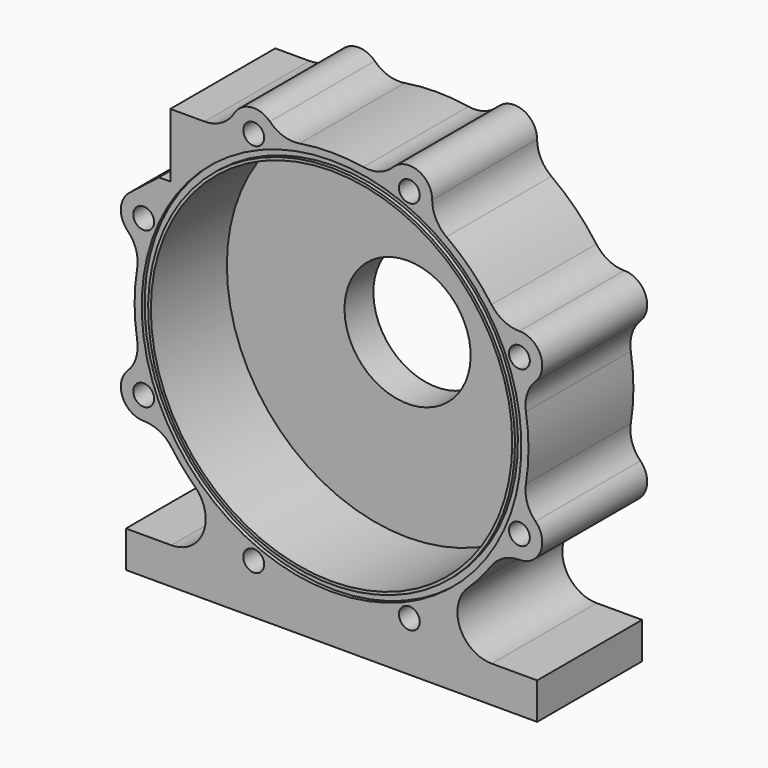
from build123d import *

# Parameters (mm, degrees)
F1_DEPTH  = 36.449
F2_W      = 1.016
F2_H      = 1.778
F5_DEPTH  = 1.524
F6_R      = 1.2065
F7_DEPTH  = 25.4
F9_DEPTH  = 6.35
F10_R     = 3.175
F11_R     = 2.667
F12_DEPTH = 6.35
F13_R     = 2.8956
F14_DEPTH = 15.875


with BuildPart() as f1:
    # F0 (on Front) → F1 (new body)
    with BuildSketch(Plane.XZ):
        with BuildLine():
            ThreePointArc((56.6949829288, -17.1290441445), (54.3541365627, -13.3097502282), (54.0179963045, -8.8428074867))
            ThreePointArc((54.0179963045, -8.8428074867), (54.737, 0), (54.0179963045, 8.8428074867))
            ThreePointArc((54.0179963045, 8.8428074867), (54.3541365627, 13.3097502282), (56.6949829288, 17.1290441445))
            ThreePointArc((56.6949829288, 17.1290441445), (58.0796868113, 24.0573939756), (52.201470158, 27.9773436184))
            ThreePointArc((52.201470158, 27.9773436184), (47.8455931913, 29.0227639068), (44.4493006316, 31.9436823545))
            ThreePointArc((44.4493006316, 31.9436823545), (38.7049038818, 38.7049038818), (31.9436823545, 44.4493006316))
            ThreePointArc((31.9436823545, 44.4493006316), (29.0227639068, 47.8455931913), (27.9773436184, 52.201470158))
            ThreePointArc((27.9773436184, 52.201470158), (24.0573939756, 58.0796868113), (17.1290441445, 56.6949829288))
            ThreePointArc((17.1290441445, 56.6949829288), (13.3097502282, 54.3541365627), (8.8428074867, 54.0179963045))
            ThreePointArc((8.8428074867, 54.0179963045), (0, 54.737), (-8.8428074867, 54.0179963045))
            ThreePointArc((-8.8428074867, 54.0179963045), (-13.3097502282, 54.3541365627), (-17.1290441445, 56.6949829288))
            ThreePointArc((-17.1290441445, 56.6949829288), (-22.4103417614, 58.5145936902), (-27.0857337356, 55.4578310679))
            ThreePointArc((-27.0857337356, 55.4578310679), (-30.563428287, 52.0459478478), (-35.2733030688, 50.8))
            Line((-35.2733030688, 50.8), (-44.7983030688, 50.8))
            Line((-44.7983030688, 50.8), (-44.7983030688, 33.02))
            Line((-44.7983030688, 33.02), (-47.9733030688, 33.02))
            Line((-47.9733030688, 33.02), (-56.1308414776, 26.6246958619))
            ThreePointArc((-56.1308414776, 26.6246958619), (-58.5518748536, 22.0039468516), (-56.6949829288, 17.1290441445))
            ThreePointArc((-56.6949829288, 17.1290441445), (-54.3541365627, 13.3097502282), (-54.0179963045, 8.8428074867))
            ThreePointArc((-54.0179963045, 8.8428074867), (-54.737, 0), (-54.0179963045, -8.8428074867))
            ThreePointArc((-54.0179963045, -8.8428074867), (-54.3541365627, -13.3097502282), (-56.6949829288, -17.1290441445))
            ThreePointArc((-56.6949829288, -17.1290441445), (-58.0796868113, -24.0573939756), (-52.201470158, -27.9773436184))
            ThreePointArc((-52.201470158, -27.9773436184), (-47.8455931913, -29.0227639068), (-44.4493006316, -31.9436823545))
            ThreePointArc((-44.4493006316, -31.9436823545), (-41.3516824423, -35.863317306), (-37.9095918017, -39.4841996047))
            ThreePointArc((-37.9095918017, -39.4841996047), (-35.6698168205, -49.9103657502), (-44.506388519, -55.88))
            Line((-44.506388519, -55.88), (-57.15, -55.88))
            Line((-57.15, -55.88), (-57.15, -66.04))
            Line((-57.15, -66.04), (57.15, -66.04))
            Line((57.15, -66.04), (57.15, -55.88))
            Line((57.15, -55.88), (44.506388519, -55.88))
            ThreePointArc((44.506388519, -55.88), (35.6698168205, -49.9103657502), (37.9095918017, -39.4841996047))
            ThreePointArc((37.9095918017, -39.4841996047), (41.3516824423, -35.863317306), (44.4493006316, -31.9436823545))
            ThreePointArc((44.4493006316, -31.9436823545), (47.8455931913, -29.0227639068), (52.201470158, -27.9773436184))
            ThreePointArc((52.201470158, -27.9773436184), (58.0796868113, -24.0573939756), (56.6949829288, -17.1290441445))
        make_face()
    extrude(amount=-F1_DEPTH)

    # F2 (on Right) → F3 (revolve, cut)
    with BuildSketch(Plane.YZ):
        Polygon((0, 50.2285), (0, 0), (36.449, 0), (36.449, 17.526), (26.416, 17.526), (26.416, 50.2285), align=None)
        with Locations((0.508, 51.8795)):
            Rectangle(F2_W, F2_H)
    revolve(axis=Axis((0, 18.2245, 0), (0, 1, 0)), mode=Mode.SUBTRACT)

    # F4 (on face) → F5 (cut)
    with BuildSketch(Plane(origin=(-44.7983030688, 0, 0), x_dir=(0, -1, 0), z_dir=(-1, 0, 0))):
        with BuildLine():
            Line((-5.08, 45.593), (-23.622, 45.593))
            ThreePointArc((-23.622, 45.593), (-27.432, 41.783), (-23.622, 37.973))
            Line((-23.622, 37.973), (-5.08, 37.973))
            ThreePointArc((-5.08, 37.973), (-1.27, 41.783), (-5.08, 45.593))
        make_face()
    extrude(amount=-F5_DEPTH, mode=Mode.SUBTRACT)

    # F6 (on face) → F7 (cut)
    with BuildSketch(Plane(origin=(-43.2743030688, 0, 0), x_dir=(0, -1, 0), z_dir=(-1, 0, 0))):
        with Locations((-4.064, 41.783)):
            Circle(F6_R)
        with Locations((-7.493, 41.783)):
            Circle(F6_R)
        with Locations((-10.922, 41.783)):
            Circle(F6_R)
        with Locations((-14.351, 41.783)):
            Circle(F6_R)
        with Locations((-17.78, 41.783)):
            Circle(F6_R)
        with Locations((-21.209, 41.783)):
            Circle(F6_R)
        with Locations((-24.638, 41.783)):
            Circle(F6_R)
    extrude(amount=-F7_DEPTH, mode=Mode.SUBTRACT)

    # F8 (on face) → F9 (cut)
    with BuildSketch(Plane(origin=(0, 36.449, 0), x_dir=(-1, 0, 0), z_dir=(0, 1, 0))):
        with BuildLine():
            ThreePointArc((-4.25191006, 25.1703990799), (0, 25.527), (4.25191006, 25.1703990799))
            ThreePointArc((4.25191006, 25.1703990799), (6.3178879801, 25.5229445895), (7.7140721105, 27.0860258339))
            Line((7.7140721105, 27.0860258339), (14.9201458977, 44.4830269023))
            ThreePointArc((14.9201458977, 44.4830269023), (14.8306867771, 47.1098167632), (12.7923948055, 48.7691520958))
            ThreePointArc((12.7923948055, 48.7691520958), (0, 50.419), (-12.7923948055, 48.7691520958))
            ThreePointArc((-12.7923948055, 48.7691520958), (-14.8306867771, 47.1098167632), (-14.9201458977, 44.4830269023))
            Line((-14.9201458977, 44.4830269023), (-7.7140721105, 27.0860258339))
            ThreePointArc((-7.7140721105, 27.0860258339), (-6.3178879801, 25.5229445895), (-4.25191006, 25.1703990799))
        make_face()
        with BuildLine():
            ThreePointArc((-25.4394090451, 43.5305872742), (-35.6516168006, 35.6516168006), (-43.5305872742, 25.4394090451))
            ThreePointArc((-43.5305872742, 25.4394090451), (-43.7985500834, 22.824791704), (-42.0043863109, 20.9041136298))
            Line((-42.0043863109, 20.9041136298), (-24.6073852424, 13.6980398426))
            ThreePointArc((-24.6073852424, 13.6980398426), (-22.5148686286, 13.5800257616), (-20.804714311, 14.7916054382))
            ThreePointArc((-20.804714311, 14.7916054382), (-18.0503148033, 18.0503148033), (-14.7916054382, 20.804714311))
            ThreePointArc((-14.7916054382, 20.804714311), (-13.5800257616, 22.5148686286), (-13.6980398426, 24.6073852424))
            Line((-13.6980398426, 24.6073852424), (-20.9041136298, 42.0043863109))
            ThreePointArc((-20.9041136298, 42.0043863109), (-22.824791704, 43.7985500834), (-25.4394090451, 43.5305872742))
        make_face()
        with BuildLine():
            ThreePointArc((-48.7691520958, 12.7923948055), (-50.419, 0), (-48.7691520958, -12.7923948055))
            ThreePointArc((-48.7691520958, -12.7923948055), (-47.1098167632, -14.8306867771), (-44.4830269023, -14.9201458977))
            Line((-44.4830269023, -14.9201458977), (-27.0860258339, -7.7140721105))
            ThreePointArc((-27.0860258339, -7.7140721105), (-25.5229445895, -6.3178879801), (-25.1703990799, -4.25191006))
            ThreePointArc((-25.1703990799, -4.25191006), (-25.527, 0), (-25.1703990799, 4.25191006))
            ThreePointArc((-25.1703990799, 4.25191006), (-25.5229445895, 6.3178879801), (-27.0860258339, 7.7140721105))
            Line((-27.0860258339, 7.7140721105), (-44.4830269023, 14.9201458977))
            ThreePointArc((-44.4830269023, 14.9201458977), (-47.1098167632, 14.8306867771), (-48.7691520958, 12.7923948055))
        make_face()
        with BuildLine():
            ThreePointArc((-43.5305872742, -25.4394090451), (-35.6516168006, -35.6516168006), (-25.4394090451, -43.5305872742))
            ThreePointArc((-25.4394090451, -43.5305872742), (-22.824791704, -43.7985500834), (-20.9041136298, -42.0043863109))
            Line((-20.9041136298, -42.0043863109), (-13.6980398426, -24.6073852424))
            ThreePointArc((-13.6980398426, -24.6073852424), (-13.5800257616, -22.5148686286), (-14.7916054382, -20.804714311))
            ThreePointArc((-14.7916054382, -20.804714311), (-18.0503148033, -18.0503148033), (-20.804714311, -14.7916054382))
            ThreePointArc((-20.804714311, -14.7916054382), (-22.5148686286, -13.5800257616), (-24.6073852424, -13.6980398426))
            Line((-24.6073852424, -13.6980398426), (-42.0043863109, -20.9041136298))
            ThreePointArc((-42.0043863109, -20.9041136298), (-43.7985500834, -22.824791704), (-43.5305872742, -25.4394090451))
        make_face()
        with BuildLine():
            ThreePointArc((-12.7923948055, -48.7691520958), (0, -50.419), (12.7923948055, -48.7691520958))
            ThreePointArc((12.7923948055, -48.7691520958), (14.8306867771, -47.1098167632), (14.9201458977, -44.4830269023))
            Line((14.9201458977, -44.4830269023), (7.7140721105, -27.0860258339))
            ThreePointArc((7.7140721105, -27.0860258339), (6.3178879801, -25.5229445895), (4.25191006, -25.1703990799))
            ThreePointArc((4.25191006, -25.1703990799), (0, -25.527), (-4.25191006, -25.1703990799))
            ThreePointArc((-4.25191006, -25.1703990799), (-6.3178879801, -25.5229445895), (-7.7140721105, -27.0860258339))
            Line((-7.7140721105, -27.0860258339), (-14.9201458977, -44.4830269023))
            ThreePointArc((-14.9201458977, -44.4830269023), (-14.8306867771, -47.1098167632), (-12.7923948055, -48.7691520958))
        make_face()
        with BuildLine():
            ThreePointArc((25.4394090451, -43.5305872742), (35.6516168006, -35.6516168006), (43.5305872742, -25.4394090451))
            ThreePointArc((43.5305872742, -25.4394090451), (43.7985500834, -22.824791704), (42.0043863109, -20.9041136298))
            Line((42.0043863109, -20.9041136298), (24.6073852424, -13.6980398426))
            ThreePointArc((24.6073852424, -13.6980398426), (22.5148686286, -13.5800257616), (20.804714311, -14.7916054382))
            ThreePointArc((20.804714311, -14.7916054382), (18.0503148033, -18.0503148033), (14.7916054382, -20.804714311))
            ThreePointArc((14.7916054382, -20.804714311), (13.5800257616, -22.5148686286), (13.6980398426, -24.6073852424))
            Line((13.6980398426, -24.6073852424), (20.9041136298, -42.0043863109))
            ThreePointArc((20.9041136298, -42.0043863109), (22.824791704, -43.7985500834), (25.4394090451, -43.5305872742))
        make_face()
        with BuildLine():
            ThreePointArc((48.7691520958, -12.7923948055), (50.419, 0), (48.7691520958, 12.7923948055))
            ThreePointArc((48.7691520958, 12.7923948055), (47.1098167632, 14.8306867771), (44.4830269023, 14.9201458977))
            Line((44.4830269023, 14.9201458977), (27.0860258339, 7.7140721105))
            ThreePointArc((27.0860258339, 7.7140721105), (25.5229445895, 6.3178879801), (25.1703990799, 4.25191006))
            ThreePointArc((25.1703990799, 4.25191006), (25.527, 0), (25.1703990799, -4.25191006))
            ThreePointArc((25.1703990799, -4.25191006), (25.5229445895, -6.3178879801), (27.0860258339, -7.7140721105))
            Line((27.0860258339, -7.7140721105), (44.4830269023, -14.9201458977))
            ThreePointArc((44.4830269023, -14.9201458977), (47.1098167632, -14.8306867771), (48.7691520958, -12.7923948055))
        make_face()
        with BuildLine():
            ThreePointArc((43.5305872742, 25.4394090451), (35.6516168006, 35.6516168006), (25.4394090451, 43.5305872742))
            ThreePointArc((25.4394090451, 43.5305872742), (22.824791704, 43.7985500834), (20.9041136298, 42.0043863109))
            Line((20.9041136298, 42.0043863109), (13.6980398426, 24.6073852424))
            ThreePointArc((13.6980398426, 24.6073852424), (13.5800257616, 22.5148686286), (14.7916054382, 20.804714311))
            ThreePointArc((14.7916054382, 20.804714311), (18.0503148033, 18.0503148033), (20.804714311, 14.7916054382))
            ThreePointArc((20.804714311, 14.7916054382), (22.5148686286, 13.5800257616), (24.6073852424, 13.6980398426))
            Line((24.6073852424, 13.6980398426), (42.0043863109, 20.9041136298))
            ThreePointArc((42.0043863109, 20.9041136298), (43.7985500834, 22.824791704), (43.5305872742, 25.4394090451))
        make_face()
    extrude(amount=-F9_DEPTH, mode=Mode.SUBTRACT)

    # F10
    f10_edges = [f1.edges().sort_by_distance(p)[0] for p in [
        (0, 30.099, 25.527),
        (-6.317888, 30.099, 25.522945),
        (-11.317109, 30.099, 35.784526),
        (-14.830687, 30.099, 47.109817),
        (0, 30.099, 50.419),
        (14.830687, 30.099, 47.109817),
        (11.317109, 30.099, 35.784526),
        (6.317888, 30.099, 25.522945),
        (-33.305886, 30.099, 17.301077),
        (-43.79855, 30.099, 22.824792),
        (-35.651617, 30.099, 35.651617),
        (-22.824792, 30.099, 43.79855),
        (-17.301077, 30.099, 33.305886),
        (-13.580026, 30.099, 22.514869),
        (-18.050315, 30.099, 18.050315),
        (-22.514869, 30.099, 13.580026),
        (-35.784526, 30.099, -11.317109),
        (-47.109817, 30.099, -14.830687),
        (-50.419, 30.099, 0),
        (-47.109817, 30.099, 14.830687),
        (-35.784526, 30.099, 11.317109),
        (-25.522945, 30.099, 6.317888),
        (-25.527, 30.099, 0),
        (-25.522945, 30.099, -6.317888),
        (-17.301077, 30.099, -33.305886),
        (-22.824792, 30.099, -43.79855),
        (-35.651617, 30.099, -35.651617),
        (-43.79855, 30.099, -22.824792),
        (-33.305886, 30.099, -17.301077),
        (-22.514869, 30.099, -13.580026),
        (-18.050315, 30.099, -18.050315),
        (-13.580026, 30.099, -22.514869),
        (11.317109, 30.099, -35.784526),
        (14.830687, 30.099, -47.109817),
        (0, 30.099, -50.419),
        (-14.830687, 30.099, -47.109817),
        (-11.317109, 30.099, -35.784526),
        (-6.317888, 30.099, -25.522945),
        (0, 30.099, -25.527),
        (6.317888, 30.099, -25.522945),
        (33.305886, 30.099, -17.301077),
        (43.79855, 30.099, -22.824792),
        (35.651617, 30.099, -35.651617),
        (22.824792, 30.099, -43.79855),
        (17.301077, 30.099, -33.305886),
        (13.580026, 30.099, -22.514869),
        (18.050315, 30.099, -18.050315),
        (22.514869, 30.099, -13.580026),
        (35.784526, 30.099, 11.317109),
        (47.109817, 30.099, 14.830687),
        (50.419, 30.099, 0),
        (47.109817, 30.099, -14.830687),
        (35.784526, 30.099, -11.317109),
        (25.522945, 30.099, -6.317888),
        (25.527, 30.099, 0),
        (25.522945, 30.099, 6.317888),
        (17.301077, 30.099, 33.305886),
        (22.824792, 30.099, 43.79855),
        (35.651617, 30.099, 35.651617),
        (43.79855, 30.099, 22.824792),
        (33.305886, 30.099, 17.301077),
        (22.514869, 30.099, 13.580026),
        (18.050315, 30.099, 18.050315),
        (13.580026, 30.099, 22.514869),
    ]]
    fillet(f10_edges, radius=F10_R)

    # F11 (on face) → F12 (cut)
    with BuildSketch(Plane(origin=(0, 36.449, 0), x_dir=(-1, 0, 0), z_dir=(0, 1, 0))):
        with Locations((0, 20.7264)):
            Circle(F11_R)
        with Locations((-14.6557779896, 14.6557779896)):
            Circle(F11_R)
        with Locations((-20.7264, 0)):
            Circle(F11_R)
        with Locations((-14.6557779896, -14.6557779896)):
            Circle(F11_R)
        with Locations((0, -20.7264)):
            Circle(F11_R)
        with Locations((14.6557779896, -14.6557779896)):
            Circle(F11_R)
        with Locations((20.7264, 0)):
            Circle(F11_R)
        with Locations((14.6557779896, 14.6557779896)):
            Circle(F11_R)
    extrude(amount=-F12_DEPTH, mode=Mode.SUBTRACT)

    # F13 (on Front) → F14 (cut)
    with BuildSketch(Plane.XZ):
        with Locations((21.6273541801, 52.2130517799)):
            Circle(F13_R)
        with Locations((-21.6273541801, 52.2130517799)):
            Circle(F13_R)
        with Locations((-52.2130517799, 21.6273541801)):
            Circle(F13_R)
        with Locations((-52.2130517799, -21.6273541801)):
            Circle(F13_R)
        with Locations((-21.6273541801, -52.2130517799)):
            Circle(F13_R)
        with Locations((21.6273541801, -52.2130517799)):
            Circle(F13_R)
        with Locations((52.2130517799, -21.6273541801)):
            Circle(F13_R)
        with Locations((52.2130517799, 21.6273541801)):
            Circle(F13_R)
    extrude(amount=-F14_DEPTH, mode=Mode.SUBTRACT)


solid = f1.part
